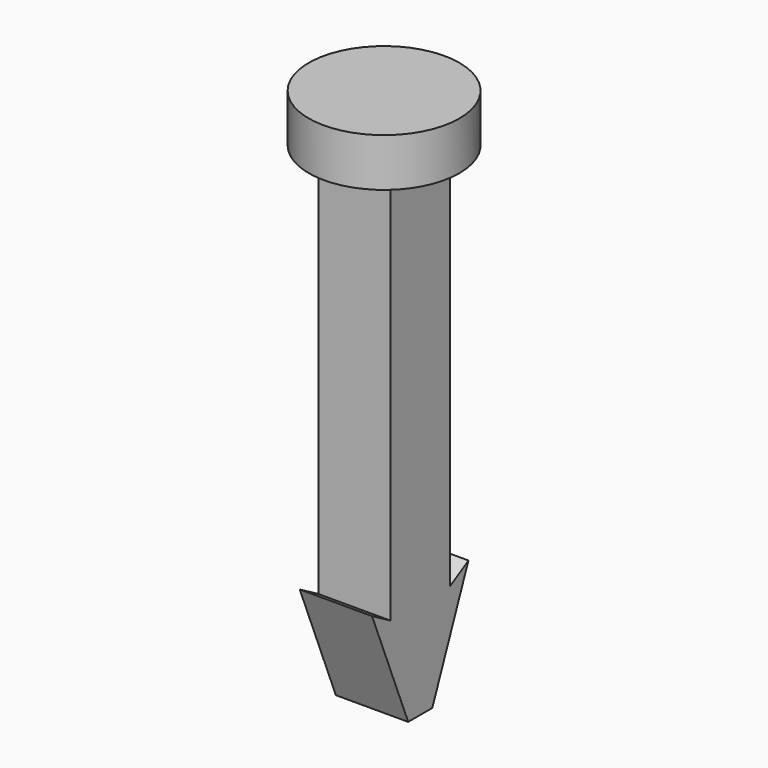
from build123d import *

# Parameters (mm, degrees)
F0_R     = 3.175
F1_DEPTH = 2.032
F3_DEPTH = 1.524


with BuildPart() as f1:
    # F0 (on Top) → F1 (new body)
    with BuildSketch(Plane.XY):
        Circle(F0_R)
    extrude(amount=F1_DEPTH)

    # F2 (on Right) → F3 (join, symmetric)
    with BuildSketch(Plane.YZ):
        Polygon((1.5621, -16.503091), (1.5621, 0), (-1.5621, 0), (-1.5621, -16.503091), (-2.54, -15.9385), (-0.635, -20.6375), (0.635, -20.6375), (2.54, -15.9385), align=None)
    extrude(amount=F3_DEPTH, both=True)


solid = f1.part
